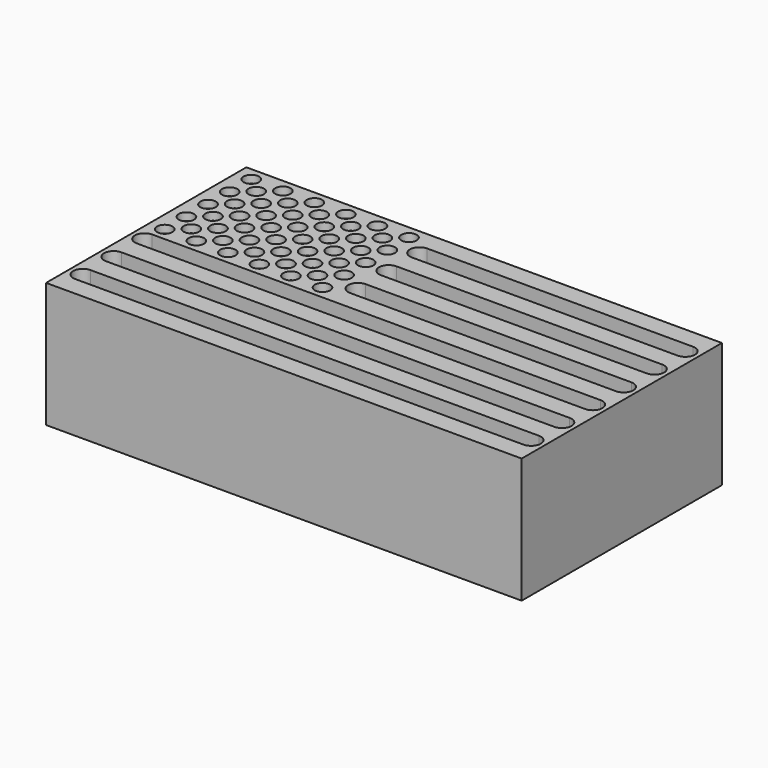
from build123d import *

# Parameters (mm, degrees)
F0_W     = 96.52
F0_H     = 50.8
F1_DEPTH = 25.4
F3_D     = 3.1242
F3_DEPTH = 1.5875
F3_TIP   = 0.938604373
F4_W     = 53.9502315351
F4_H     = 3.9116
F4_W_2   = 90.9828
F5_DEPTH = 3.175


with BuildPart() as f1:
    # F0 (on Top) → F1 (new body)
    with BuildSketch(Plane.XY):
        with Locations((48.26, 25.4)):
            Rectangle(F0_W, F0_H)
    extrude(amount=F1_DEPTH)

    # F3
    with Locations(Plane.XY.offset(25.4)):
        with Locations((28.8036, 48.0568), (35.2044, 48.0568), (22.4028, 48.0568), (16.002, 48.0568), (9.6012, 48.0568), (3.2004, 48.0568), (6.4008, 45.3136), (9.6012, 42.5704), (12.8016, 45.3136), (16.002, 42.5704), (19.2024, 45.3136), (22.4028, 42.5704), (25.6032, 45.3136), (28.8036, 42.5704), (32.004, 45.3136), (35.2044, 42.5704), (32.004, 39.8272), (35.2044, 37.084), (32.004, 34.3408), (28.8036, 37.084), (25.6032, 39.8272), (19.2024, 39.8272), (22.4028, 37.084), (25.6032, 34.3408), (28.8036, 31.5976), (32.004, 28.8544), (35.2044, 31.5976), (28.8036, 26.1112), (25.6032, 28.8544), (22.4028, 31.5976), (19.2024, 34.3408), (12.8016, 39.8272), (3.2004, 42.5704), (6.4008, 39.8272), (3.2004, 37.084), (6.4008, 34.3408), (9.6012, 37.084), (12.8016, 34.3408), (9.6012, 31.5976), (6.4008, 28.8544), (3.2004, 31.5976), (3.2004, 26.1112), (16.002, 26.1112), (19.2024, 28.8544), (22.4028, 26.1112), (35.2044, 26.1112), (16.002, 31.5976), (9.6012, 26.1112), (12.8016, 28.8544), (16.002, 37.084)):
            Hole(F3_D / 2, depth=F3_DEPTH)
            with Locations((0, 0, -(F3_DEPTH + F3_TIP / 2))):  # 118° drill point
                Cone(0, F3_D / 2, F3_TIP, mode=Mode.SUBTRACT)

    # F4 (on face) → F5 (cut)
    with BuildSketch(Plane.XY.offset(25.4)):
        with BuildLine():
            ThreePointArc((39.8011684649, 46.9392), (37.8453684649, 44.9834), (39.8011684649, 43.0276))
            Line((39.8011684649, 43.0276), (39.8011684649, 46.9392))
        make_face()
        with Locations((66.7762842325, 44.9834)):
            Rectangle(F4_W, F4_H)
        with BuildLine():
            Line((93.7514, 46.9392), (93.7514, 43.0276))
            ThreePointArc((93.7514, 43.0276), (95.7072, 44.9834), (93.7514, 46.9392))
        make_face()
        with BuildLine():
            Line((93.7514, 39.116), (93.7514, 35.2044))
            ThreePointArc((93.7514, 35.2044), (95.7072, 37.1602), (93.7514, 39.116))
        make_face()
        with Locations((66.7762842325, 37.1602)):
            Rectangle(F4_W, F4_H)
        with BuildLine():
            ThreePointArc((39.8011684649, 39.116), (37.8453684649, 37.1602), (39.8011684649, 35.2044))
            Line((39.8011684649, 35.2044), (39.8011684649, 39.116))
        make_face()
        with BuildLine():
            ThreePointArc((39.8011684649, 31.2928), (37.8453684649, 29.337), (39.8011684649, 27.3812))
            Line((39.8011684649, 27.3812), (39.8011684649, 31.2928))
        make_face()
        with Locations((66.7762842325, 29.337)):
            Rectangle(F4_W, F4_H)
        with BuildLine():
            Line((93.7514, 31.2928), (93.7514, 27.3812))
            ThreePointArc((93.7514, 27.3812), (95.7072, 29.337), (93.7514, 31.2928))
        make_face()
        with BuildLine():
            Line((93.7514, 23.4696), (93.7514, 19.558))
            ThreePointArc((93.7514, 19.558), (95.7072, 21.5138), (93.7514, 23.4696))
        make_face()
        with Locations((48.26, 21.5138)):
            Rectangle(F4_W_2, F4_H)
        with BuildLine():
            ThreePointArc((93.7514, 11.7348), (95.7072, 13.6906), (93.7514, 15.6464))
            Line((93.7514, 15.6464), (93.7514, 11.7348))
        make_face()
        with Locations((48.26, 13.6906)):
            Rectangle(F4_W_2, F4_H)
        with BuildLine():
            Line((93.7514, 7.8232), (93.7514, 3.9116))
            ThreePointArc((93.7514, 3.9116), (95.7072, 5.8674), (93.7514, 7.8232))
        make_face()
        with Locations((48.26, 5.8674)):
            Rectangle(F4_W_2, F4_H)
        with BuildLine():
            ThreePointArc((2.7686, 7.8232), (0.8128, 5.8674), (2.7686, 3.9116))
            Line((2.7686, 3.9116), (2.7686, 7.8232))
        make_face()
        with BuildLine():
            Line((2.7686, 11.7348), (2.7686, 15.6464))
            ThreePointArc((2.7686, 15.6464), (0.8128, 13.6906), (2.7686, 11.7348))
        make_face()
        with BuildLine():
            ThreePointArc((2.7686, 23.4696), (0.8128, 21.5138), (2.7686, 19.558))
            Line((2.7686, 19.558), (2.7686, 23.4696))
        make_face()
    extrude(amount=-F5_DEPTH, mode=Mode.SUBTRACT)


solid = f1.part
